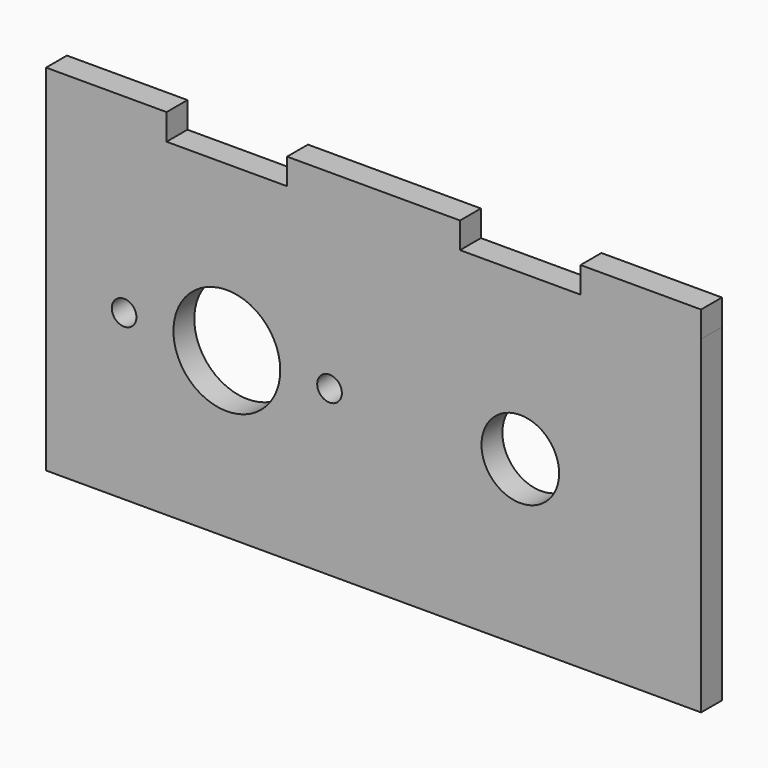
from build123d import *

# Parameters (mm, degrees)
F0_R     = 1.5
F0_R_2   = 6.5
F0_W     = 35.718762
F0_H     = 40
F0_R_3   = 4.7244
F1_DEPTH = 3.175
F2_W     = 14.666667
F2_H     = 3.175
F2_W_2   = 21.052095
F3_DEPTH = 3.175


with BuildPart() as f1:
    # F0 (on Front) → F1 (new body)
    with BuildSketch(Plane.XZ):
        with BuildLine():
            ThreePointArc((13.718762, 0.874425), (13.927961, 0.45927), (14, 0))
            ThreePointArc((14, 0), (13.927961, -0.45927), (13.718762, -0.874425))
            Line((13.718762, -0.874425), (13.718762, -20))
            Line((13.718762, -20), (22, -20))
            Line((22, -20), (22, 20))
            Line((22, 20), (13.718762, 20))
            Line((13.718762, 20), (13.718762, 0.874425))
        make_face()
        with BuildLine():
            ThreePointArc((13.718762, -0.874425), (11, 0), (13.718762, 0.874425))
            Line((13.718762, 0.874425), (13.718762, 20))
            Line((13.718762, 20), (-22, 20))
            Line((-22, 20), (-22, -20))
            Line((-22, -20), (13.718762, -20))
            Line((13.718762, -20), (13.718762, -0.874425))
        make_face()
        with Locations((-12.5, 0)):
            Circle(F0_R, mode=Mode.SUBTRACT)
        Circle(F0_R_2, mode=Mode.SUBTRACT)
        with Locations((39.859381, 0)):
            Rectangle(F0_W, F0_H)
        with Locations((35.718762, 0)):
            Circle(F0_R_3, mode=Mode.SUBTRACT)
    extrude(amount=F1_DEPTH)

    # F2 (on face) → F3 (join)
    with BuildSketch(Plane.XY.offset(20)):
        with Locations((-14.666666, -1.5875)):
            Rectangle(F2_W, F2_H)
        with Locations((50.385429, -1.5875)):
            Rectangle(F2_W, F2_H)
        with Locations((17.859381, -1.5875)):
            Rectangle(F2_W_2, F2_H)
    extrude(amount=F3_DEPTH)


solid = f1.part
